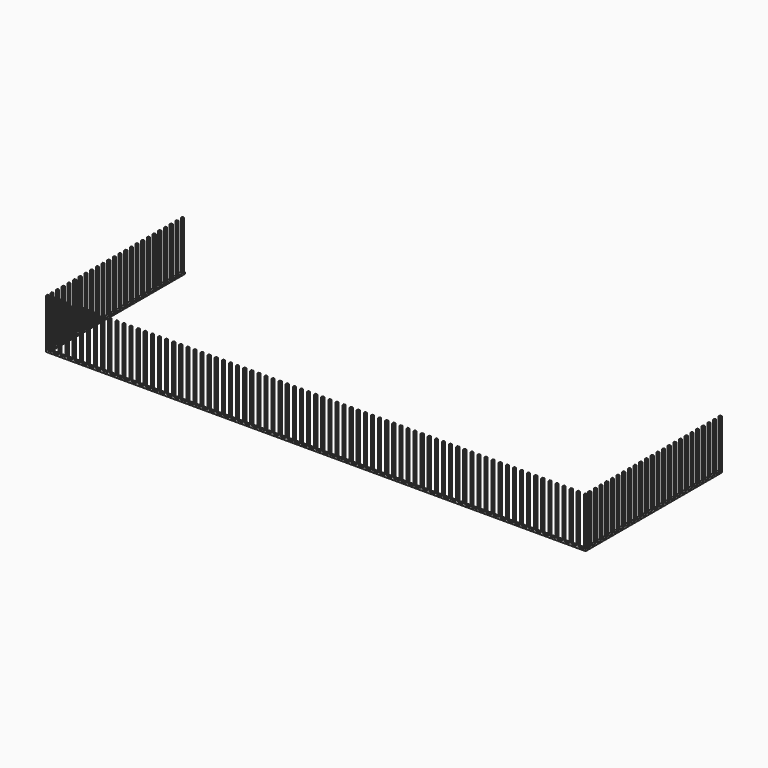
from build123d import *

# Parameters (mm, degrees)
F0_W     = 38.1
F0_H     = 38.1
F1_DEPTH = 1066.8
F2_DEPTH = 38.1


with BuildPart() as f1:
    # F0 (on Top) → F1 (new body)
    with BuildSketch(Plane.XY):
        with Locations((-11245.85, -3638.55)):
            Rectangle(F0_W, F0_H)
        with Locations((-8807.45, -3638.55)):
            Rectangle(F0_W, F0_H)
        with Locations((-11093.45, -3638.55)):
            Rectangle(F0_W, F0_H)
        with Locations((-10941.05, -3638.55)):
            Rectangle(F0_W, F0_H)
        with Locations((-10636.25, -3638.55)):
            Rectangle(F0_W, F0_H)
        with Locations((-10483.85, -3638.55)):
            Rectangle(F0_W, F0_H)
        with Locations((-10788.65, -3638.55)):
            Rectangle(F0_W, F0_H)
        with Locations((-8959.85, -3638.55)):
            Rectangle(F0_W, F0_H)
        with Locations((-11398.25, -3638.55)):
            Rectangle(F0_W, F0_H)
        with Locations((-9112.25, -3638.55)):
            Rectangle(F0_W, F0_H)
        with Locations((-11512.55, -3638.55)):
            Rectangle(F0_W, F0_H)
        with Locations((-9264.65, -3638.55)):
            Rectangle(F0_W, F0_H)
        with Locations((-11512.55, -2609.85)):
            Rectangle(F0_W, F0_H)
        with Locations((-9417.05, -3638.55)):
            Rectangle(F0_W, F0_H)
        with Locations((-11512.55, -2762.25)):
            Rectangle(F0_W, F0_H)
        with Locations((-9569.45, -3638.55)):
            Rectangle(F0_W, F0_H)
        with Locations((-11512.55, -2914.65)):
            Rectangle(F0_W, F0_H)
        with Locations((-9721.85, -3638.55)):
            Rectangle(F0_W, F0_H)
        with Locations((-11512.55, -3067.05)):
            Rectangle(F0_W, F0_H)
        with Locations((-9874.25, -3638.55)):
            Rectangle(F0_W, F0_H)
        with Locations((-11512.55, -3219.45)):
            Rectangle(F0_W, F0_H)
        with Locations((-10026.65, -3638.55)):
            Rectangle(F0_W, F0_H)
        with Locations((-11512.55, -3371.85)):
            Rectangle(F0_W, F0_H)
        with Locations((-10179.05, -3638.55)):
            Rectangle(F0_W, F0_H)
        with Locations((-11512.55, -3524.25)):
            Rectangle(F0_W, F0_H)
        with Locations((-10331.45, -3638.55)):
            Rectangle(F0_W, F0_H)
        with Locations((-11512.55, -1847.85)):
            Rectangle(F0_W, F0_H)
        with Locations((-11512.55, -2152.65)):
            Rectangle(F0_W, F0_H)
        with Locations((-11512.55, -171.45)):
            Rectangle(F0_W, F0_H)
        with Locations((-11512.55, -933.45)):
            Rectangle(F0_W, F0_H)
        with Locations((-11512.55, -2000.25)):
            Rectangle(F0_W, F0_H)
        with Locations((-11512.55, -1695.45)):
            Rectangle(F0_W, F0_H)
        with Locations((-11512.55, -1390.65)):
            Rectangle(F0_W, F0_H)
        with Locations((-11512.55, -1238.25)):
            Rectangle(F0_W, F0_H)
        with Locations((-11512.55, -1543.05)):
            Rectangle(F0_W, F0_H)
        with Locations((-11512.55, -2305.05)):
            Rectangle(F0_W, F0_H)
        with Locations((-11512.55, -2457.45)):
            Rectangle(F0_W, F0_H)
        with Locations((-11512.55, -323.85)):
            Rectangle(F0_W, F0_H)
        with Locations((-11512.55, -476.25)):
            Rectangle(F0_W, F0_H)
        with Locations((-11512.55, -628.65)):
            Rectangle(F0_W, F0_H)
        with Locations((-11512.55, -781.05)):
            Rectangle(F0_W, F0_H)
        with Locations((-11512.55, -1085.85)):
            Rectangle(F0_W, F0_H)
        with Locations((-11512.55, -19.05)):
            Rectangle(F0_W, F0_H)
        with Locations((-3625.85, -3638.55)):
            Rectangle(F0_W, F0_H)
        with Locations((-8502.65, -3638.55)):
            Rectangle(F0_W, F0_H)
        with Locations((-1492.25, -3638.55)):
            Rectangle(F0_W, F0_H)
        with Locations((-3930.65, -3638.55)):
            Rectangle(F0_W, F0_H)
        with Locations((-6369.05, -3638.55)):
            Rectangle(F0_W, F0_H)
        with Locations((-3778.25, -3638.55)):
            Rectangle(F0_W, F0_H)
        with Locations((-882.65, -3638.55)):
            Rectangle(F0_W, F0_H)
        with Locations((-5759.45, -3638.55)):
            Rectangle(F0_W, F0_H)
        with Locations((-3168.65, -3638.55)):
            Rectangle(F0_W, F0_H)
        with Locations((-8045.45, -3638.55)):
            Rectangle(F0_W, F0_H)
        with Locations((-5911.85, -3638.55)):
            Rectangle(F0_W, F0_H)
        with Locations((-1035.05, -3638.55)):
            Rectangle(F0_W, F0_H)
        with Locations((-6521.45, -3638.55)):
            Rectangle(F0_W, F0_H)
        with Locations((-1644.65, -3638.55)):
            Rectangle(F0_W, F0_H)
        with Locations((-6673.85, -3638.55)):
            Rectangle(F0_W, F0_H)
        with Locations((-1797.05, -3638.55)):
            Rectangle(F0_W, F0_H)
        with Locations((-4540.25, -3638.55)):
            Rectangle(F0_W, F0_H)
        with Locations((-2406.65, -3638.55)):
            Rectangle(F0_W, F0_H)
        with Locations((-7283.45, -3638.55)):
            Rectangle(F0_W, F0_H)
        with Locations((-7435.85, -3638.55)):
            Rectangle(F0_W, F0_H)
        with Locations((-5149.85, -3638.55)):
            Rectangle(F0_W, F0_H)
        with Locations((-5302.25, -3638.55)):
            Rectangle(F0_W, F0_H)
        with Locations((-425.45, -3638.55)):
            Rectangle(F0_W, F0_H)
        with Locations((-3016.25, -3638.55)):
            Rectangle(F0_W, F0_H)
        with Locations((-7893.05, -3638.55)):
            Rectangle(F0_W, F0_H)
        with Locations((-6064.25, -3638.55)):
            Rectangle(F0_W, F0_H)
        with Locations((-1187.45, -3638.55)):
            Rectangle(F0_W, F0_H)
        with Locations((-1339.85, -3638.55)):
            Rectangle(F0_W, F0_H)
        with Locations((-6216.65, -3638.55)):
            Rectangle(F0_W, F0_H)
        with Locations((-8655.05, -3638.55)):
            Rectangle(F0_W, F0_H)
        with Locations((-3321.05, -3638.55)):
            Rectangle(F0_W, F0_H)
        with Locations((-8197.85, -3638.55)):
            Rectangle(F0_W, F0_H)
        with Locations((-730.25, -3638.55)):
            Rectangle(F0_W, F0_H)
        with Locations((-5607.05, -3638.55)):
            Rectangle(F0_W, F0_H)
        with Locations((-3473.45, -3638.55)):
            Rectangle(F0_W, F0_H)
        with Locations((-8350.25, -3638.55)):
            Rectangle(F0_W, F0_H)
        with Locations((-4083.05, -3638.55)):
            Rectangle(F0_W, F0_H)
        with Locations((-4235.45, -3638.55)):
            Rectangle(F0_W, F0_H)
        with Locations((-6826.25, -3638.55)):
            Rectangle(F0_W, F0_H)
        with Locations((-4387.85, -3638.55)):
            Rectangle(F0_W, F0_H)
        with Locations((-1949.45, -3638.55)):
            Rectangle(F0_W, F0_H)
        with Locations((-6978.65, -3638.55)):
            Rectangle(F0_W, F0_H)
        with Locations((-2101.85, -3638.55)):
            Rectangle(F0_W, F0_H)
        with Locations((-4692.65, -3638.55)):
            Rectangle(F0_W, F0_H)
        with Locations((-2254.25, -3638.55)):
            Rectangle(F0_W, F0_H)
        with Locations((-7131.05, -3638.55)):
            Rectangle(F0_W, F0_H)
        with Locations((-4845.05, -3638.55)):
            Rectangle(F0_W, F0_H)
        with Locations((-4997.45, -3638.55)):
            Rectangle(F0_W, F0_H)
        with Locations((-2559.05, -3638.55)):
            Rectangle(F0_W, F0_H)
        with Locations((-2711.45, -3638.55)):
            Rectangle(F0_W, F0_H)
        with Locations((-7588.25, -3638.55)):
            Rectangle(F0_W, F0_H)
        with Locations((-2863.85, -3638.55)):
            Rectangle(F0_W, F0_H)
        with Locations((-7740.65, -3638.55)):
            Rectangle(F0_W, F0_H)
        with Locations((-5454.65, -3638.55)):
            Rectangle(F0_W, F0_H)
        with Locations((-577.85, -3638.55)):
            Rectangle(F0_W, F0_H)
        with Locations((31.75, -1085.85)):
            Rectangle(F0_W, F0_H)
        with Locations((31.75, -933.45)):
            Rectangle(F0_W, F0_H)
        with Locations((31.75, -628.65)):
            Rectangle(F0_W, F0_H)
        with Locations((31.75, -476.25)):
            Rectangle(F0_W, F0_H)
        with Locations((31.75, -323.85)):
            Rectangle(F0_W, F0_H)
        with Locations((31.75, -1543.05)):
            Rectangle(F0_W, F0_H)
        with Locations((31.75, -1390.65)):
            Rectangle(F0_W, F0_H)
        with Locations((31.75, -2152.65)):
            Rectangle(F0_W, F0_H)
        with Locations((31.75, -1847.85)):
            Rectangle(F0_W, F0_H)
        with Locations((31.75, -1695.45)):
            Rectangle(F0_W, F0_H)
        with Locations((31.75, -781.05)):
            Rectangle(F0_W, F0_H)
        with Locations((31.75, -171.45)):
            Rectangle(F0_W, F0_H)
        with Locations((31.75, -1238.25)):
            Rectangle(F0_W, F0_H)
        with Locations((31.75, -2000.25)):
            Rectangle(F0_W, F0_H)
        with Locations((31.75, -19.05)):
            Rectangle(F0_W, F0_H)
        with Locations((31.75, -3371.85)):
            Rectangle(F0_W, F0_H)
        with Locations((31.75, -3219.45)):
            Rectangle(F0_W, F0_H)
        with Locations((31.75, -3067.05)):
            Rectangle(F0_W, F0_H)
        with Locations((31.75, -2457.45)):
            Rectangle(F0_W, F0_H)
        with Locations((31.75, -2914.65)):
            Rectangle(F0_W, F0_H)
        with Locations((31.75, -2762.25)):
            Rectangle(F0_W, F0_H)
        with Locations((31.75, -2609.85)):
            Rectangle(F0_W, F0_H)
        with Locations((31.75, -2305.05)):
            Rectangle(F0_W, F0_H)
        with Locations((31.75, -3638.55)):
            Rectangle(F0_W, F0_H)
        with Locations((-120.65, -3638.55)):
            Rectangle(F0_W, F0_H)
        with Locations((31.75, -3524.25)):
            Rectangle(F0_W, F0_H)
        with Locations((-273.05, -3638.55)):
            Rectangle(F0_W, F0_H)
    extrude(amount=F1_DEPTH)

    # F0 (on Top) → F2 (join)
    with BuildSketch(Plane.XY):
        with Locations((-11512.55, -19.05)):
            Rectangle(F0_W, F0_H)
        Polygon((-11493.5, -38.1), (-11531.6, -38.1), (-11531.6, -152.4), (-11493.5, -152.4), (-11493.5, -190.5), (-11531.6, -190.5), (-11531.6, -304.8), (-11493.5, -304.8), (-11493.5, -342.9), (-11531.6, -342.9), (-11531.6, -457.2), (-11493.5, -457.2), (-11493.5, -495.3), (-11531.6, -495.3), (-11531.6, -609.6), (-11493.5, -609.6), (-11493.5, -647.7), (-11531.6, -647.7), (-11531.6, -762), (-11493.5, -762), (-11493.5, -800.1), (-11531.6, -800.1), (-11531.6, -914.4), (-11493.5, -914.4), (-11493.5, -952.5), (-11531.6, -952.5), (-11531.6, -1066.8), (-11493.5, -1066.8), (-11493.5, -1104.9), (-11531.6, -1104.9), (-11531.6, -1219.2), (-11493.5, -1219.2), (-11493.5, -1257.3), (-11531.6, -1257.3), (-11531.6, -1371.6), (-11493.5, -1371.6), (-11493.5, -1409.7), (-11531.6, -1409.7), (-11531.6, -1524), (-11493.5, -1524), (-11493.5, -1562.1), (-11531.6, -1562.1), (-11531.6, -1676.4), (-11493.5, -1676.4), (-11493.5, -1714.5), (-11531.6, -1714.5), (-11531.6, -1828.8), (-11493.5, -1828.8), (-11493.5, -1866.9), (-11531.6, -1866.9), (-11531.6, -1981.2), (-11493.5, -1981.2), (-11493.5, -2019.3), (-11531.6, -2019.3), (-11531.6, -2133.6), (-11493.5, -2133.6), (-11493.5, -2171.7), (-11531.6, -2171.7), (-11531.6, -2286), (-11493.5, -2286), (-11493.5, -2324.1), (-11531.6, -2324.1), (-11531.6, -2438.4), (-11493.5, -2438.4), (-11493.5, -2476.5), (-11531.6, -2476.5), (-11531.6, -2590.8), (-11493.5, -2590.8), (-11493.5, -2628.9), (-11531.6, -2628.9), (-11531.6, -2743.2), (-11493.5, -2743.2), (-11493.5, -2781.3), (-11531.6, -2781.3), (-11531.6, -2895.6), (-11493.5, -2895.6), (-11493.5, -2933.7), (-11531.6, -2933.7), (-11531.6, -3048), (-11493.5, -3048), (-11493.5, -3086.1), (-11531.6, -3086.1), (-11531.6, -3200.4), (-11493.5, -3200.4), (-11493.5, -3238.5), (-11531.6, -3238.5), (-11531.6, -3352.8), (-11493.5, -3352.8), (-11493.5, -3390.9), (-11531.6, -3390.9), (-11531.6, -3505.2), (-11493.5, -3505.2), (-11493.5, -3543.3), (-11531.6, -3543.3), (-11531.6, -3619.5), (-11493.5, -3619.5), (-11493.5, -3657.6), (-11417.3, -3657.6), (-11417.3, -3619.5), (-11379.2, -3619.5), (-11379.2, -3657.6), (-11264.9, -3657.6), (-11264.9, -3619.5), (-11226.8, -3619.5), (-11226.8, -3657.6), (-11112.5, -3657.6), (-11112.5, -3619.5), (-11074.4, -3619.5), (-11074.4, -3657.6), (-10960.1, -3657.6), (-10960.1, -3619.5), (-10922, -3619.5), (-10922, -3657.6), (-10807.7, -3657.6), (-10807.7, -3619.5), (-10769.6, -3619.5), (-10769.6, -3657.6), (-10655.3, -3657.6), (-10655.3, -3619.5), (-10617.2, -3619.5), (-10617.2, -3657.6), (-10502.9, -3657.6), (-10502.9, -3619.5), (-10464.8, -3619.5), (-10464.8, -3657.6), (-10350.5, -3657.6), (-10350.5, -3619.5), (-10312.4, -3619.5), (-10312.4, -3657.6), (-10198.1, -3657.6), (-10198.1, -3619.5), (-10160, -3619.5), (-10160, -3657.6), (-10045.7, -3657.6), (-10045.7, -3619.5), (-10007.6, -3619.5), (-10007.6, -3657.6), (-9893.3, -3657.6), (-9893.3, -3619.5), (-9855.2, -3619.5), (-9855.2, -3657.6), (-9740.9, -3657.6), (-9740.9, -3619.5), (-9702.8, -3619.5), (-9702.8, -3657.6), (-9588.5, -3657.6), (-9588.5, -3619.5), (-9550.4, -3619.5), (-9550.4, -3657.6), (-9436.1, -3657.6), (-9436.1, -3619.5), (-9398, -3619.5), (-9398, -3657.6), (-9283.7, -3657.6), (-9283.7, -3619.5), (-9245.6, -3619.5), (-9245.6, -3657.6), (-9131.3, -3657.6), (-9131.3, -3619.5), (-9093.2, -3619.5), (-9093.2, -3657.6), (-8978.9, -3657.6), (-8978.9, -3619.5), (-8940.8, -3619.5), (-8940.8, -3657.6), (-8826.5, -3657.6), (-8826.5, -3619.5), (-8788.4, -3619.5), (-8788.4, -3657.6), (-8674.1, -3657.6), (-8674.1, -3619.5), (-8636, -3619.5), (-8636, -3657.6), (-8521.7, -3657.6), (-8521.7, -3619.5), (-8483.6, -3619.5), (-8483.6, -3657.6), (-8369.3, -3657.6), (-8369.3, -3619.5), (-8331.2, -3619.5), (-8331.2, -3657.6), (-8216.9, -3657.6), (-8216.9, -3619.5), (-8178.8, -3619.5), (-8178.8, -3657.6), (-8064.5, -3657.6), (-8064.5, -3619.5), (-8026.4, -3619.5), (-8026.4, -3657.6), (-7912.1, -3657.6), (-7912.1, -3619.5), (-7874, -3619.5), (-7874, -3657.6), (-7759.7, -3657.6), (-7759.7, -3619.5), (-7721.6, -3619.5), (-7721.6, -3657.6), (-7607.3, -3657.6), (-7607.3, -3619.5), (-7569.2, -3619.5), (-7569.2, -3657.6), (-7454.9, -3657.6), (-7454.9, -3619.5), (-7416.8, -3619.5), (-7416.8, -3657.6), (-7302.5, -3657.6), (-7302.5, -3619.5), (-7264.4, -3619.5), (-7264.4, -3657.6), (-7150.1, -3657.6), (-7150.1, -3619.5), (-7112, -3619.5), (-7112, -3657.6), (-6997.7, -3657.6), (-6997.7, -3619.5), (-6959.6, -3619.5), (-6959.6, -3657.6), (-6845.3, -3657.6), (-6845.3, -3619.5), (-6807.2, -3619.5), (-6807.2, -3657.6), (-6692.9, -3657.6), (-6692.9, -3619.5), (-6654.8, -3619.5), (-6654.8, -3657.6), (-6540.5, -3657.6), (-6540.5, -3619.5), (-6502.4, -3619.5), (-6502.4, -3657.6), (-6388.1, -3657.6), (-6388.1, -3619.5), (-6350, -3619.5), (-6350, -3657.6), (-6235.7, -3657.6), (-6235.7, -3619.5), (-6197.6, -3619.5), (-6197.6, -3657.6), (-6083.3, -3657.6), (-6083.3, -3619.5), (-6045.2, -3619.5), (-6045.2, -3657.6), (-5930.9, -3657.6), (-5930.9, -3619.5), (-5892.8, -3619.5), (-5892.8, -3657.6), (-5778.5, -3657.6), (-5778.5, -3619.5), (-5740.4, -3619.5), (-5740.4, -3657.6), (-5626.1, -3657.6), (-5626.1, -3619.5), (-5588, -3619.5), (-5588, -3657.6), (-5473.7, -3657.6), (-5473.7, -3619.5), (-5435.6, -3619.5), (-5435.6, -3657.6), (-5321.3, -3657.6), (-5321.3, -3619.5), (-5283.2, -3619.5), (-5283.2, -3657.6), (-5168.9, -3657.6), (-5168.9, -3619.5), (-5130.8, -3619.5), (-5130.8, -3657.6), (-5016.5, -3657.6), (-5016.5, -3619.5), (-4978.4, -3619.5), (-4978.4, -3657.6), (-4864.1, -3657.6), (-4864.1, -3619.5), (-4826, -3619.5), (-4826, -3657.6), (-4711.7, -3657.6), (-4711.7, -3619.5), (-4673.6, -3619.5), (-4673.6, -3657.6), (-4559.3, -3657.6), (-4559.3, -3619.5), (-4521.2, -3619.5), (-4521.2, -3657.6), (-4406.9, -3657.6), (-4406.9, -3619.5), (-4368.8, -3619.5), (-4368.8, -3657.6), (-4254.5, -3657.6), (-4254.5, -3619.5), (-4216.4, -3619.5), (-4216.4, -3657.6), (-4102.1, -3657.6), (-4102.1, -3619.5), (-4064, -3619.5), (-4064, -3657.6), (-3949.7, -3657.6), (-3949.7, -3619.5), (-3911.6, -3619.5), (-3911.6, -3657.6), (-3797.3, -3657.6), (-3797.3, -3619.5), (-3759.2, -3619.5), (-3759.2, -3657.6), (-3644.9, -3657.6), (-3644.9, -3619.5), (-3606.8, -3619.5), (-3606.8, -3657.6), (-3492.5, -3657.6), (-3492.5, -3619.5), (-3454.4, -3619.5), (-3454.4, -3657.6), (-3340.1, -3657.6), (-3340.1, -3619.5), (-3302, -3619.5), (-3302, -3657.6), (-3187.7, -3657.6), (-3187.7, -3619.5), (-3149.6, -3619.5), (-3149.6, -3657.6), (-3035.3, -3657.6), (-3035.3, -3619.5), (-2997.2, -3619.5), (-2997.2, -3657.6), (-2882.9, -3657.6), (-2882.9, -3619.5), (-2844.8, -3619.5), (-2844.8, -3657.6), (-2730.5, -3657.6), (-2730.5, -3619.5), (-2692.4, -3619.5), (-2692.4, -3657.6), (-2578.1, -3657.6), (-2578.1, -3619.5), (-2540, -3619.5), (-2540, -3657.6), (-2425.7, -3657.6), (-2425.7, -3619.5), (-2387.6, -3619.5), (-2387.6, -3657.6), (-2273.3, -3657.6), (-2273.3, -3619.5), (-2235.2, -3619.5), (-2235.2, -3657.6), (-2120.9, -3657.6), (-2120.9, -3619.5), (-2082.8, -3619.5), (-2082.8, -3657.6), (-1968.5, -3657.6), (-1968.5, -3619.5), (-1930.4, -3619.5), (-1930.4, -3657.6), (-1816.1, -3657.6), (-1816.1, -3619.5), (-1778, -3619.5), (-1778, -3657.6), (-1663.7, -3657.6), (-1663.7, -3619.5), (-1625.6, -3619.5), (-1625.6, -3657.6), (-1511.3, -3657.6), (-1511.3, -3619.5), (-1473.2, -3619.5), (-1473.2, -3657.6), (-1358.9, -3657.6), (-1358.9, -3619.5), (-1320.8, -3619.5), (-1320.8, -3657.6), (-1206.5, -3657.6), (-1206.5, -3619.5), (-1168.4, -3619.5), (-1168.4, -3657.6), (-1054.1, -3657.6), (-1054.1, -3619.5), (-1016, -3619.5), (-1016, -3657.6), (-901.7, -3657.6), (-901.7, -3619.5), (-863.6, -3619.5), (-863.6, -3657.6), (-749.3, -3657.6), (-749.3, -3619.5), (-711.2, -3619.5), (-711.2, -3657.6), (-596.9, -3657.6), (-596.9, -3619.5), (-558.8, -3619.5), (-558.8, -3657.6), (-444.5, -3657.6), (-444.5, -3619.5), (-406.4, -3619.5), (-406.4, -3657.6), (-292.1, -3657.6), (-292.1, -3619.5), (-254, -3619.5), (-254, -3657.6), (-139.7, -3657.6), (-139.7, -3619.5), (-101.6, -3619.5), (-101.6, -3657.6), (12.7, -3657.6), (12.7, -3619.5), (50.8, -3619.5), (50.8, -3543.3), (12.7, -3543.3), (12.7, -3505.2), (50.8, -3505.2), (50.8, -3390.9), (12.7, -3390.9), (12.7, -3352.8), (50.8, -3352.8), (50.8, -3238.5), (12.7, -3238.5), (12.7, -3200.4), (50.8, -3200.4), (50.8, -3086.1), (12.7, -3086.1), (12.7, -3048), (50.8, -3048), (50.8, -2933.7), (12.7, -2933.7), (12.7, -2895.6), (50.8, -2895.6), (50.8, -2781.3), (12.7, -2781.3), (12.7, -2743.2), (50.8, -2743.2), (50.8, -2628.9), (12.7, -2628.9), (12.7, -2590.8), (50.8, -2590.8), (50.8, -2476.5), (12.7, -2476.5), (12.7, -2438.4), (50.8, -2438.4), (50.8, -2324.1), (12.7, -2324.1), (12.7, -2286), (50.8, -2286), (50.8, -2171.7), (12.7, -2171.7), (12.7, -2133.6), (50.8, -2133.6), (50.8, -2019.3), (12.7, -2019.3), (12.7, -1981.2), (50.8, -1981.2), (50.8, -1866.9), (12.7, -1866.9), (12.7, -1828.8), (50.8, -1828.8), (50.8, -1714.5), (12.7, -1714.5), (12.7, -1676.4), (50.8, -1676.4), (50.8, -1562.1), (12.7, -1562.1), (12.7, -1524), (50.8, -1524), (50.8, -1409.7), (12.7, -1409.7), (12.7, -1371.6), (50.8, -1371.6), (50.8, -1257.3), (12.7, -1257.3), (12.7, -1219.2), (50.8, -1219.2), (50.8, -1104.9), (12.7, -1104.9), (12.7, -1066.8), (50.8, -1066.8), (50.8, -952.5), (12.7, -952.5), (12.7, -914.4), (50.8, -914.4), (50.8, -800.1), (12.7, -800.1), (12.7, -762), (50.8, -762), (50.8, -647.7), (12.7, -647.7), (12.7, -609.6), (50.8, -609.6), (50.8, -495.3), (12.7, -495.3), (12.7, -457.2), (50.8, -457.2), (50.8, -342.9), (12.7, -342.9), (12.7, -304.8), (50.8, -304.8), (50.8, -190.5), (12.7, -190.5), (12.7, -152.4), (50.8, -152.4), (50.8, -38.1), (12.7, -38.1), (12.7, 0), (0, 0), (0, -3606.8), (-11480.8, -3606.8), (-11480.8, 0), (-11493.5, 0), align=None)
        with Locations((-11512.55, -171.45)):
            Rectangle(F0_W, F0_H)
        with Locations((-11512.55, -323.85)):
            Rectangle(F0_W, F0_H)
        with Locations((-11512.55, -476.25)):
            Rectangle(F0_W, F0_H)
        with Locations((31.75, -19.05)):
            Rectangle(F0_W, F0_H)
        with Locations((-11512.55, -628.65)):
            Rectangle(F0_W, F0_H)
        with Locations((31.75, -171.45)):
            Rectangle(F0_W, F0_H)
        with Locations((-11512.55, -781.05)):
            Rectangle(F0_W, F0_H)
        with Locations((31.75, -323.85)):
            Rectangle(F0_W, F0_H)
        with Locations((-11512.55, -933.45)):
            Rectangle(F0_W, F0_H)
        with Locations((31.75, -476.25)):
            Rectangle(F0_W, F0_H)
        with Locations((-11512.55, -1085.85)):
            Rectangle(F0_W, F0_H)
        with Locations((31.75, -628.65)):
            Rectangle(F0_W, F0_H)
        with Locations((-11512.55, -1238.25)):
            Rectangle(F0_W, F0_H)
        with Locations((31.75, -781.05)):
            Rectangle(F0_W, F0_H)
        with Locations((-11512.55, -1390.65)):
            Rectangle(F0_W, F0_H)
        with Locations((31.75, -933.45)):
            Rectangle(F0_W, F0_H)
        with Locations((-11512.55, -1543.05)):
            Rectangle(F0_W, F0_H)
        with Locations((31.75, -1085.85)):
            Rectangle(F0_W, F0_H)
        with Locations((-11512.55, -1695.45)):
            Rectangle(F0_W, F0_H)
        with Locations((31.75, -1238.25)):
            Rectangle(F0_W, F0_H)
        with Locations((-11512.55, -1847.85)):
            Rectangle(F0_W, F0_H)
        with Locations((31.75, -1390.65)):
            Rectangle(F0_W, F0_H)
        with Locations((-11512.55, -2000.25)):
            Rectangle(F0_W, F0_H)
        with Locations((31.75, -1543.05)):
            Rectangle(F0_W, F0_H)
        with Locations((-11512.55, -2152.65)):
            Rectangle(F0_W, F0_H)
        with Locations((31.75, -1695.45)):
            Rectangle(F0_W, F0_H)
        with Locations((-11512.55, -2305.05)):
            Rectangle(F0_W, F0_H)
        with Locations((31.75, -1847.85)):
            Rectangle(F0_W, F0_H)
        with Locations((-11512.55, -2457.45)):
            Rectangle(F0_W, F0_H)
        with Locations((31.75, -2000.25)):
            Rectangle(F0_W, F0_H)
        with Locations((-11512.55, -2609.85)):
            Rectangle(F0_W, F0_H)
        with Locations((31.75, -2152.65)):
            Rectangle(F0_W, F0_H)
        with Locations((-11512.55, -2762.25)):
            Rectangle(F0_W, F0_H)
        with Locations((31.75, -2305.05)):
            Rectangle(F0_W, F0_H)
        with Locations((-11512.55, -2914.65)):
            Rectangle(F0_W, F0_H)
        with Locations((31.75, -2457.45)):
            Rectangle(F0_W, F0_H)
        with Locations((-11512.55, -3067.05)):
            Rectangle(F0_W, F0_H)
        with Locations((31.75, -2609.85)):
            Rectangle(F0_W, F0_H)
        with Locations((-11512.55, -3219.45)):
            Rectangle(F0_W, F0_H)
        with Locations((31.75, -2762.25)):
            Rectangle(F0_W, F0_H)
        with Locations((-11512.55, -3371.85)):
            Rectangle(F0_W, F0_H)
        with Locations((31.75, -2914.65)):
            Rectangle(F0_W, F0_H)
        with Locations((-11512.55, -3524.25)):
            Rectangle(F0_W, F0_H)
        with Locations((31.75, -3067.05)):
            Rectangle(F0_W, F0_H)
        with Locations((-11512.55, -3638.55)):
            Rectangle(F0_W, F0_H)
        with Locations((31.75, -3219.45)):
            Rectangle(F0_W, F0_H)
        with Locations((-11398.25, -3638.55)):
            Rectangle(F0_W, F0_H)
        with Locations((31.75, -3371.85)):
            Rectangle(F0_W, F0_H)
        with Locations((-11245.85, -3638.55)):
            Rectangle(F0_W, F0_H)
        with Locations((31.75, -3524.25)):
            Rectangle(F0_W, F0_H)
        with Locations((-11093.45, -3638.55)):
            Rectangle(F0_W, F0_H)
        with Locations((31.75, -3638.55)):
            Rectangle(F0_W, F0_H)
        with Locations((-10941.05, -3638.55)):
            Rectangle(F0_W, F0_H)
        with Locations((-120.65, -3638.55)):
            Rectangle(F0_W, F0_H)
        with Locations((-10788.65, -3638.55)):
            Rectangle(F0_W, F0_H)
        with Locations((-273.05, -3638.55)):
            Rectangle(F0_W, F0_H)
        with Locations((-10636.25, -3638.55)):
            Rectangle(F0_W, F0_H)
        with Locations((-425.45, -3638.55)):
            Rectangle(F0_W, F0_H)
        with Locations((-10483.85, -3638.55)):
            Rectangle(F0_W, F0_H)
        with Locations((-577.85, -3638.55)):
            Rectangle(F0_W, F0_H)
        with Locations((-10331.45, -3638.55)):
            Rectangle(F0_W, F0_H)
        with Locations((-730.25, -3638.55)):
            Rectangle(F0_W, F0_H)
        with Locations((-10179.05, -3638.55)):
            Rectangle(F0_W, F0_H)
        with Locations((-882.65, -3638.55)):
            Rectangle(F0_W, F0_H)
        with Locations((-10026.65, -3638.55)):
            Rectangle(F0_W, F0_H)
        with Locations((-1035.05, -3638.55)):
            Rectangle(F0_W, F0_H)
        with Locations((-9874.25, -3638.55)):
            Rectangle(F0_W, F0_H)
        with Locations((-1187.45, -3638.55)):
            Rectangle(F0_W, F0_H)
        with Locations((-9721.85, -3638.55)):
            Rectangle(F0_W, F0_H)
        with Locations((-1339.85, -3638.55)):
            Rectangle(F0_W, F0_H)
        with Locations((-9569.45, -3638.55)):
            Rectangle(F0_W, F0_H)
        with Locations((-1492.25, -3638.55)):
            Rectangle(F0_W, F0_H)
        with Locations((-9417.05, -3638.55)):
            Rectangle(F0_W, F0_H)
        with Locations((-1644.65, -3638.55)):
            Rectangle(F0_W, F0_H)
        with Locations((-9264.65, -3638.55)):
            Rectangle(F0_W, F0_H)
        with Locations((-1797.05, -3638.55)):
            Rectangle(F0_W, F0_H)
        with Locations((-9112.25, -3638.55)):
            Rectangle(F0_W, F0_H)
        with Locations((-1949.45, -3638.55)):
            Rectangle(F0_W, F0_H)
        with Locations((-8959.85, -3638.55)):
            Rectangle(F0_W, F0_H)
        with Locations((-2101.85, -3638.55)):
            Rectangle(F0_W, F0_H)
        with Locations((-8807.45, -3638.55)):
            Rectangle(F0_W, F0_H)
        with Locations((-2254.25, -3638.55)):
            Rectangle(F0_W, F0_H)
        with Locations((-8655.05, -3638.55)):
            Rectangle(F0_W, F0_H)
        with Locations((-2406.65, -3638.55)):
            Rectangle(F0_W, F0_H)
        with Locations((-8502.65, -3638.55)):
            Rectangle(F0_W, F0_H)
        with Locations((-2559.05, -3638.55)):
            Rectangle(F0_W, F0_H)
        with Locations((-8350.25, -3638.55)):
            Rectangle(F0_W, F0_H)
        with Locations((-2711.45, -3638.55)):
            Rectangle(F0_W, F0_H)
        with Locations((-8197.85, -3638.55)):
            Rectangle(F0_W, F0_H)
        with Locations((-2863.85, -3638.55)):
            Rectangle(F0_W, F0_H)
        with Locations((-8045.45, -3638.55)):
            Rectangle(F0_W, F0_H)
        with Locations((-3016.25, -3638.55)):
            Rectangle(F0_W, F0_H)
        with Locations((-7893.05, -3638.55)):
            Rectangle(F0_W, F0_H)
        with Locations((-3168.65, -3638.55)):
            Rectangle(F0_W, F0_H)
        with Locations((-7740.65, -3638.55)):
            Rectangle(F0_W, F0_H)
        with Locations((-3321.05, -3638.55)):
            Rectangle(F0_W, F0_H)
        with Locations((-7588.25, -3638.55)):
            Rectangle(F0_W, F0_H)
        with Locations((-3473.45, -3638.55)):
            Rectangle(F0_W, F0_H)
        with Locations((-7435.85, -3638.55)):
            Rectangle(F0_W, F0_H)
        with Locations((-3625.85, -3638.55)):
            Rectangle(F0_W, F0_H)
        with Locations((-7283.45, -3638.55)):
            Rectangle(F0_W, F0_H)
        with Locations((-3778.25, -3638.55)):
            Rectangle(F0_W, F0_H)
        with Locations((-7131.05, -3638.55)):
            Rectangle(F0_W, F0_H)
        with Locations((-3930.65, -3638.55)):
            Rectangle(F0_W, F0_H)
        with Locations((-6978.65, -3638.55)):
            Rectangle(F0_W, F0_H)
        with Locations((-4083.05, -3638.55)):
            Rectangle(F0_W, F0_H)
        with Locations((-6826.25, -3638.55)):
            Rectangle(F0_W, F0_H)
        with Locations((-4235.45, -3638.55)):
            Rectangle(F0_W, F0_H)
        with Locations((-6673.85, -3638.55)):
            Rectangle(F0_W, F0_H)
        with Locations((-4387.85, -3638.55)):
            Rectangle(F0_W, F0_H)
        with Locations((-6521.45, -3638.55)):
            Rectangle(F0_W, F0_H)
        with Locations((-4540.25, -3638.55)):
            Rectangle(F0_W, F0_H)
        with Locations((-6369.05, -3638.55)):
            Rectangle(F0_W, F0_H)
        with Locations((-4692.65, -3638.55)):
            Rectangle(F0_W, F0_H)
        with Locations((-6216.65, -3638.55)):
            Rectangle(F0_W, F0_H)
        with Locations((-4845.05, -3638.55)):
            Rectangle(F0_W, F0_H)
        with Locations((-6064.25, -3638.55)):
            Rectangle(F0_W, F0_H)
        with Locations((-4997.45, -3638.55)):
            Rectangle(F0_W, F0_H)
        with Locations((-5911.85, -3638.55)):
            Rectangle(F0_W, F0_H)
        with Locations((-5149.85, -3638.55)):
            Rectangle(F0_W, F0_H)
        with Locations((-5759.45, -3638.55)):
            Rectangle(F0_W, F0_H)
        with Locations((-5302.25, -3638.55)):
            Rectangle(F0_W, F0_H)
        with Locations((-5607.05, -3638.55)):
            Rectangle(F0_W, F0_H)
        with Locations((-5454.65, -3638.55)):
            Rectangle(F0_W, F0_H)
    extrude(amount=F2_DEPTH)


solid = f1.part
